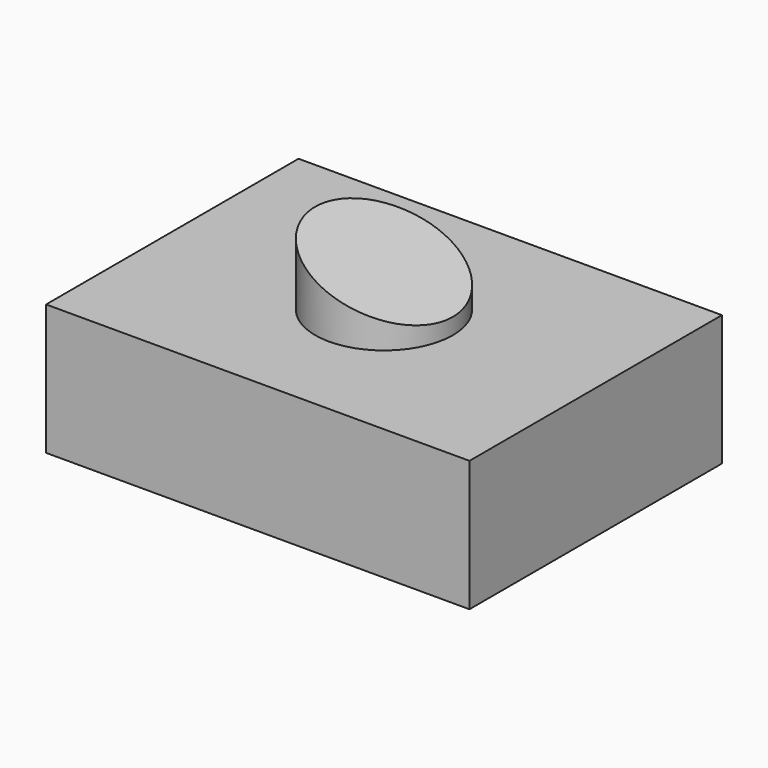
from build123d import *

# Parameters (mm, degrees)
F0_W     = 82.296788
F0_H     = 61.336212
F1_DEPTH = 25.4
F2_R     = 13.383079
F3_DEPTH = 14.986
F5_DEPTH = 25.4


with BuildPart() as f1:
    # F0 (on Top) → F1 (new body)
    with BuildSketch(Plane.XY):
        Rectangle(F0_W, F0_H)
    extrude(amount=F1_DEPTH)

    # F2 (on face) → F3 (join)
    with BuildSketch(Plane.XY.offset(25.4)):
        Circle(F2_R)
    extrude(amount=F3_DEPTH)

    # F4 (on Front) → F5 (cut, symmetric)
    with BuildSketch(Plane.XZ):
        Polygon((18.06845, 41.92983), (-21.930402, 41.92983), (18.06845, 26.757853), align=None)
    extrude(amount=F5_DEPTH, both=True, mode=Mode.SUBTRACT)


solid = f1.part
